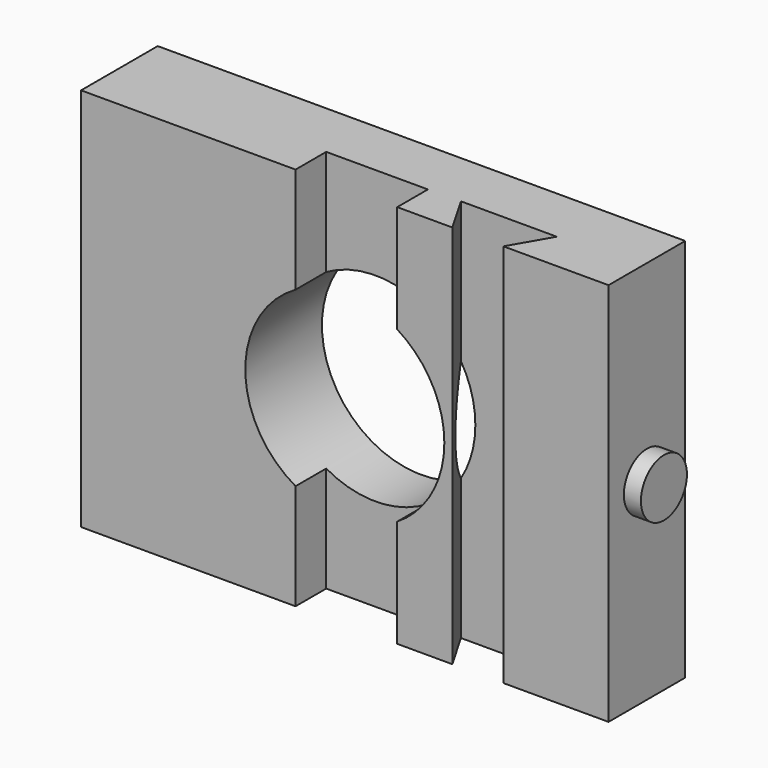
from build123d import *

# Parameters (mm, degrees)
F0_W     = 69.9034725258
F0_H     = 50.9537383914
F0_R     = 13.1910844609
F1_DEPTH = 12.7
F3_DEPTH = 5.08
F5_DEPTH = 50.9547383914
F6_R     = 3.81
F7_DEPTH = 2.2606


with BuildPart() as f1:
    # F0 (on Front) → F1 (new body)
    with BuildSketch(Plane.XZ):
        with Locations((-0.2105524327, 0)):
            Rectangle(F0_W, F0_H)
        with Locations((-0.2105524327, 0)):
            Circle(F0_R, mode=Mode.SUBTRACT)
    extrude(amount=F1_DEPTH)

    # F2 (on face) → F3 (cut)
    with BuildSketch(Plane.XZ.offset(12.7)):
        with BuildLine():
            Line((6.7376832012, 25.4768691957), (-6.7376843654, 25.4768691957))
            Line((-6.7376843654, 25.4768691957), (-6.7376843654, 11.4630387764))
            ThreePointArc((-6.7376843654, 11.4630387764), (0.0343716306, 13.1888104641), (6.7376832012, 11.2127931771))
            Line((6.7376832012, 11.2127931771), (6.7376832012, 25.4768691957))
        make_face()
        with BuildLine():
            ThreePointArc((6.7376832012, -11.2127931771), (0.0343716306, -13.1888104641), (-6.7376843654, -11.4630387764))
            Line((-6.7376843654, -11.4630387764), (-6.7376843654, -25.4768691957))
            Line((-6.7376843654, -25.4768691957), (6.7376832012, -25.4768691957))
            Line((6.7376832012, -25.4768691957), (6.7376832012, -11.2127931771))
        make_face()
    extrude(amount=-F3_DEPTH, mode=Mode.SUBTRACT)

    # F4 (on face) → F5 (cut, through all)
    with BuildSketch(Plane(origin=(0, 0, -25.4768691957), x_dir=(1, 0, 0), z_dir=(0, 0, -1))):
        Polygon((20.8039732322, 12.7), (14.0363142386, 12.7), (11.0701437354, 7.5624419846), (23.7701437354, 7.5624419846), align=None)
    extrude(amount=-F5_DEPTH, mode=Mode.SUBTRACT)

    # F6 (on face) → F7 (join)
    with BuildSketch(Plane.YZ.offset(34.7411838302)):
        with Locations((-6.35, 0)):
            Circle(F6_R)
    extrude(amount=F7_DEPTH)


solid = f1.part
